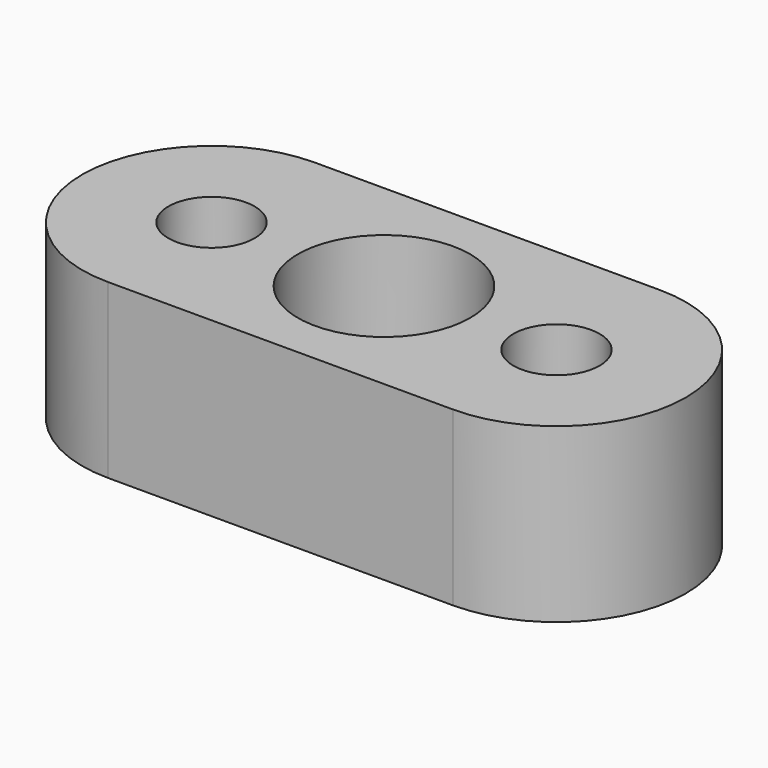
from build123d import *

# Parameters (mm, degrees)
F0_R     = 3.175
F0_R_2   = 6.35
F1_DEPTH = 12.7


with BuildPart() as f1:
    # F0 (on Top) → F1 (new body)
    with BuildSketch(Plane.XY):
        with BuildLine():
            ThreePointArc((12.7, -9.525), (22.225, 0), (12.7, 9.525))
            Line((12.7, 9.525), (-12.7, 9.525))
            ThreePointArc((-12.7, 9.525), (-22.225, 0), (-12.7, -9.525))
            Line((-12.7, -9.525), (12.7, -9.525))
        make_face()
        with Locations((-12.7, 0)):
            Circle(F0_R, mode=Mode.SUBTRACT)
        Circle(F0_R_2, mode=Mode.SUBTRACT)
        with Locations((12.7, 0)):
            Circle(F0_R, mode=Mode.SUBTRACT)
    extrude(amount=F1_DEPTH)


solid = f1.part
